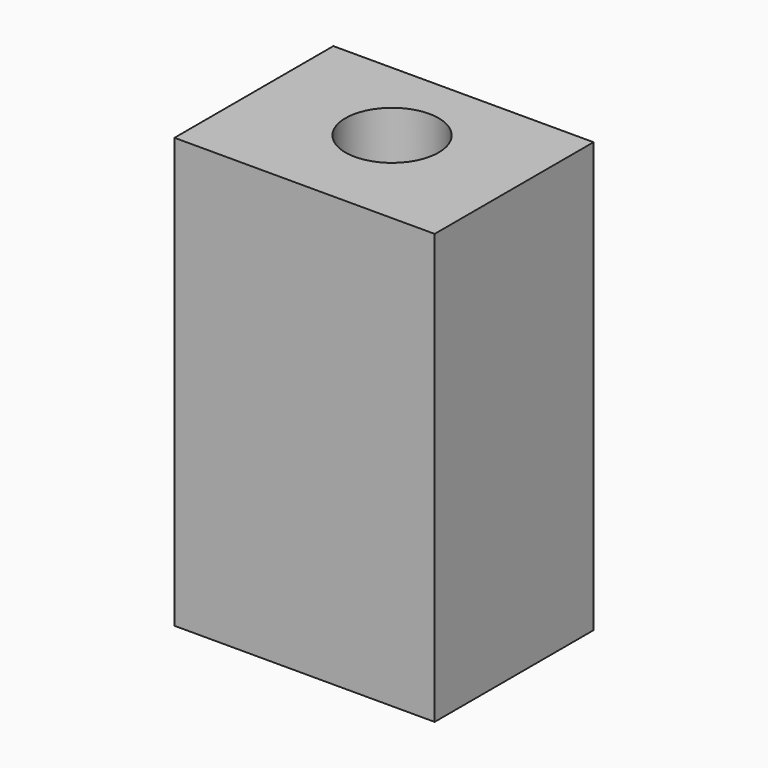
from build123d import *

# Parameters (mm, degrees)
F0_W     = 81.98338
F0_H     = 62.573127
F1_DEPTH = 84.243337
F2_W     = 81.98338
F2_H     = 62.573127
F2_R     = 14.680632
F3_DEPTH = 51.138023


with BuildPart() as f1:
    # F0 (on Top) → F1 (new body)
    with BuildSketch(Plane.XY):
        with Locations((40.99169, 31.286563)):
            Rectangle(F0_W, F0_H)
    extrude(amount=F1_DEPTH)

    # F2 (on face) → F3 (join)
    with BuildSketch(Plane.XY.offset(84.243337)):
        with Locations((40.99169, 31.286563)):
            Rectangle(F2_W, F2_H)
        with Locations((40.99169, 34.461021)):
            Circle(F2_R, mode=Mode.SUBTRACT)
    extrude(amount=F3_DEPTH)


solid = f1.part
